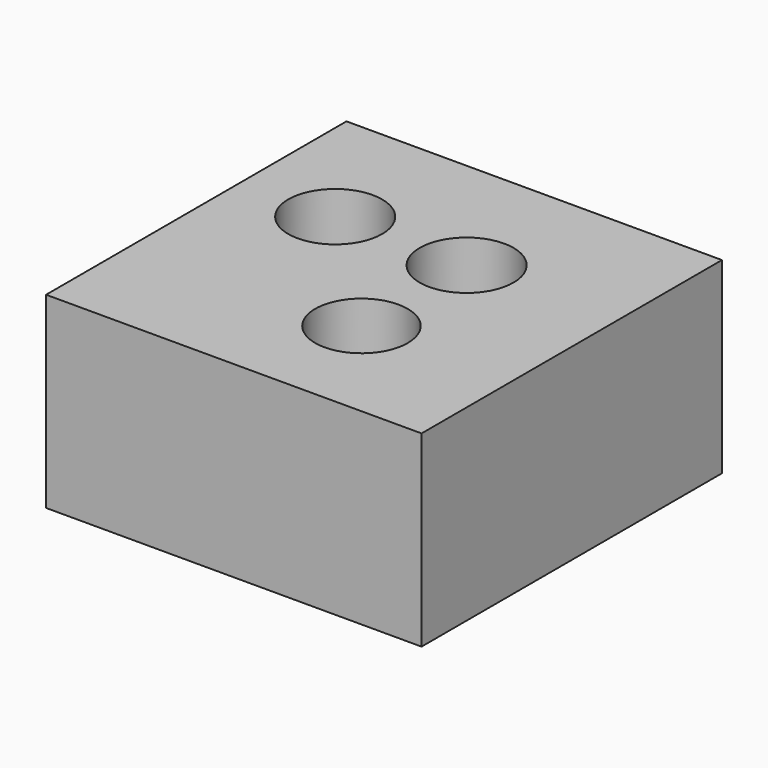
from build123d import *

# Parameters (mm, degrees)
F0_W     = 20
F0_H     = 20
F0_R     = 2.466297
F0_R_2   = 2.5
F1_DEPTH = 10


with BuildPart() as f1:
    # F0 (on Top) → F1 (new body)
    with BuildSketch(Plane.XY):
        with Locations((-10, 10)):
            Rectangle(F0_W, F0_H)
        with Locations((-8, 6)):
            Circle(F0_R, mode=Mode.SUBTRACT)
        with Locations((-15, 13)):
            Circle(F0_R_2, mode=Mode.SUBTRACT)
        with Locations((-8, 13)):
            Circle(F0_R_2, mode=Mode.SUBTRACT)
    extrude(amount=F1_DEPTH)


solid = f1.part
